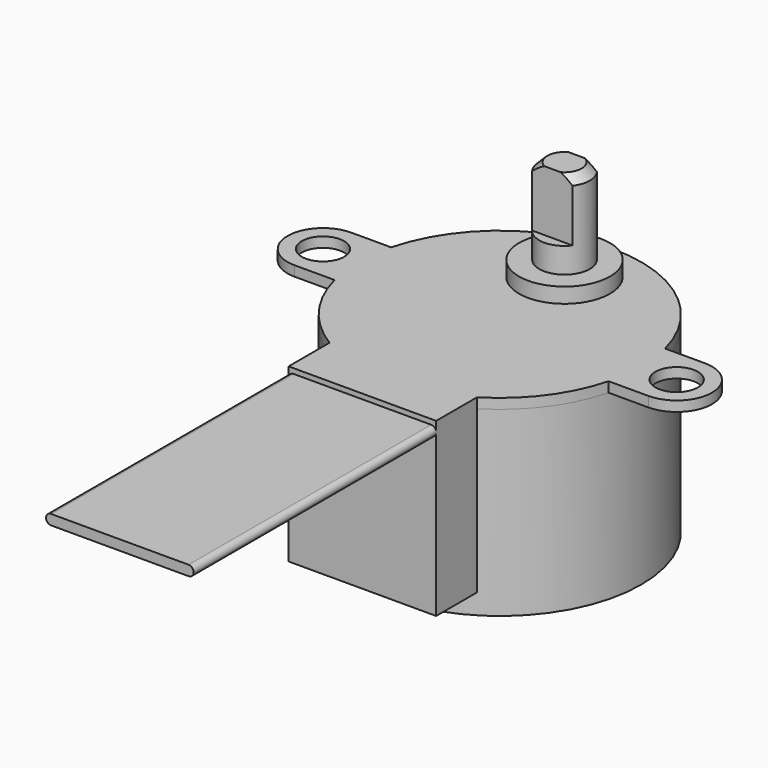
from build123d import *

# Parameters (mm, degrees)
SKETCH_R     = 2.1
PAD_DEPTH    = 1
SKETCH001_R  = 14
PAD001_DEPTH = 18
POCKET_DEPTH = 6
PAD002_DEPTH = 17
PAD003_DEPTH = 30


with BuildPart() as part:
    # Sketch → Pad (new body)
    with BuildSketch(Plane.XY):
        with BuildLine():
            ThreePointArc((13.555442, 3.5), (0, 14), (-13.555442, 3.5))
            Line((-17.5, 3.5), (-13.555442, 3.5))
            ThreePointArc((-17.5, 3.5), (-21, 0), (-17.5, -3.5))
            Line((-17.5, -3.5), (-13.555442, -3.5))
            ThreePointArc((-13.555442, -3.5), (0, -14), (13.555442, -3.5))
            Line((13.555442, -3.5), (17.5, -3.5))
            ThreePointArc((17.5, -3.5), (21, 0), (17.5, 3.5))
            Line((13.555442, 3.5), (17.5, 3.5))
        make_face()
        with Locations((-17.5, 0)):
            Circle(SKETCH_R, mode=Mode.SUBTRACT)
        with Locations((17.5, 0)):
            Circle(SKETCH_R, mode=Mode.SUBTRACT)
    extrude(amount=-PAD_DEPTH)

    # Sketch001 (on Face12 of Pad) → Pad001 (join)
    with BuildSketch(Plane(origin=(0, 0, -1), x_dir=(1, 0, 0), z_dir=(0, 0, -1))):
        Circle(SKETCH001_R)
    extrude(amount=PAD001_DEPTH)

    # Sketch002 → Revolution (revolve)
    with BuildSketch(Plane.XZ.offset(-8)):
        Polygon((0, 0), (4.5, 0), (4.5, 1.5), (2.5, 1.5), (2.5, 9.2), (1.7, 10), (0, 10), align=None)
    revolve(axis=Axis((0, 8, 0), (0, 0, 1)))

    # Sketch003 (on Face20 of Revolution) → Pocket (cut)
    with BuildSketch(Plane.XY.offset(10)):
        with BuildLine():
            ThreePointArc((2.598076, 9.5), (0, 11), (-2.598076, 9.5))
            Line((-2.598076, 9.5), (2.598076, 9.5))
        make_face()
        with BuildLine():
            Line((2.598076, 6.5), (-2.598076, 6.5))
            ThreePointArc((-2.598076, 6.5), (0, 5), (2.598076, 6.5))
        make_face()
    extrude(amount=-POCKET_DEPTH, mode=Mode.SUBTRACT)

    # Sketch004 → Pad002 (join)
    with BuildSketch(Plane.XY):
        with BuildLine():
            ThreePointArc((-7.3, -11.946129), (0, -14), (7.3, -11.946129))
            Line((7.3, -11.946129), (7.3, -17))
            Line((7.3, -17), (-7.3, -17))
            Line((-7.3, -17), (-7.3, -11.946129))
        make_face()
    extrude(amount=-PAD002_DEPTH)

    # Sketch005 (on Face22 of Pad002) → Pad003 (join)
    with BuildSketch(Plane.XZ.offset(17)):
        with BuildLine():
            ThreePointArc((-6.8, -0.5), (-7.3, -1), (-6.8, -1.5))
            Line((-6.8, -1.5), (6.8, -1.5))
            ThreePointArc((6.8, -1.5), (7.3, -1), (6.8, -0.5))
            Line((-6.8, -0.5), (6.8, -0.5))
        make_face()
    extrude(amount=PAD003_DEPTH)


solid = part.part
